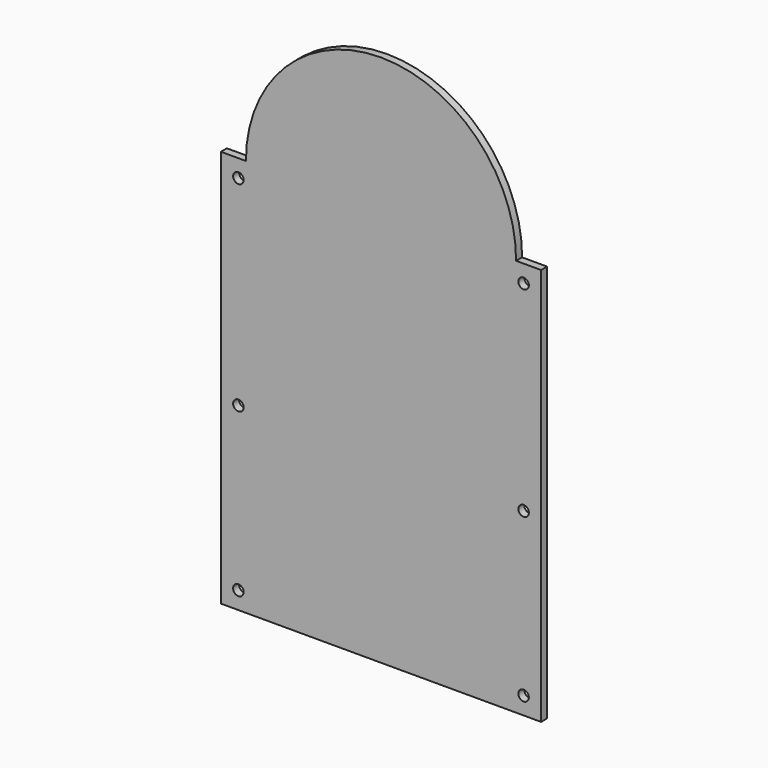
from build123d import *

# Parameters (mm, degrees)
F1_DEPTH = 9.525
F2_R     = 6.6675
F3_DEPTH = 9.526


with BuildPart() as f1:
    # F0 (on Front) → F1 (new body)
    with BuildSketch(Plane.XZ):
        with BuildLine():
            Line((203.2, 0), (171.45, 0))
            ThreePointArc((171.45, 0), (0, 171.45), (-171.45, 0))
            Line((-171.45, 0), (-203.2, 0))
            Line((-203.2, 0), (-203.2, -504.825))
            Line((-203.2, -504.825), (203.2, -504.825))
            Line((203.2, -504.825), (203.2, 0))
        make_face()
    extrude(amount=F1_DEPTH)

    # F2 (on face) → F3 (cut, through all)
    with BuildSketch(Plane.XZ.offset(9.525)):
        with Locations((-180.975, -22.225)):
            Circle(F2_R)
        with Locations((180.975, -22.225)):
            Circle(F2_R)
        with Locations((180.975, -276.225)):
            Circle(F2_R)
        with Locations((-180.975, -276.225)):
            Circle(F2_R)
        with Locations((180.975, -482.6)):
            Circle(F2_R)
        with Locations((-180.975, -482.6)):
            Circle(F2_R)
    extrude(amount=-F3_DEPTH, mode=Mode.SUBTRACT)


solid = f1.part
